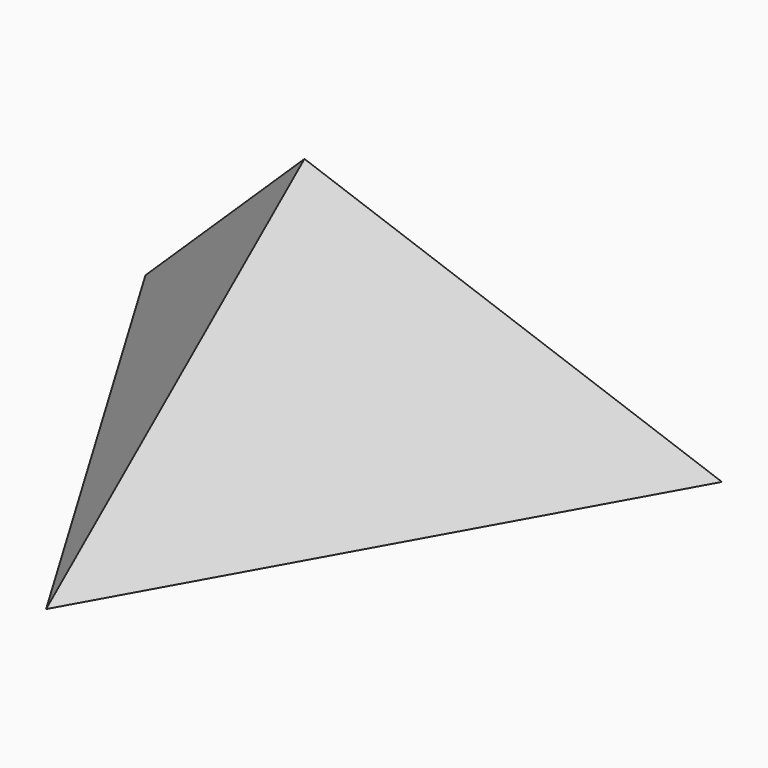
from build123d import *


with BuildPart() as f3:
    # F0 (on Top) → F3 section 0
    with BuildSketch(Plane.XY, mode=Mode.PRIVATE) as f3_s0:
        Polygon((108.223819, 64.602833), (-110.059604, 61.42316), (1.835785, -126.025993), align=None)
    loft([f3_s0.sketch, Vertex(0, 0, 100)])


solid = f3.part
